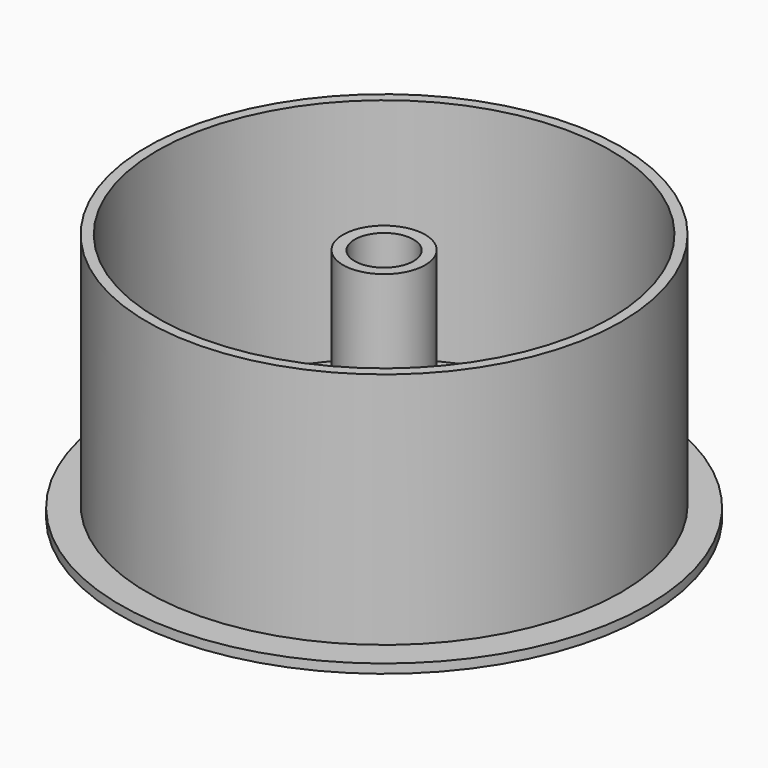
from build123d import *

# Parameters (mm, degrees)
F0_W = 38.031577
F0_H = 1.577056


with BuildPart() as f1:
    # F0 (on Front) → F1 (revolve)
    with BuildSketch(Plane.XZ):
        Polygon((39.341409, 0), (7.130294, 0), (7.130294, 37.154283), (5.101061, 37.087251), (5.101061, 0), (5.101061, -6.098447), (13.001503, -6.098447), (13.001503, -4.487136), (7.130294, -4.487136), (7.130294, -1.778), (41.119409, -1.778), (41.119409, 39.531007), (39.341409, 39.531007), align=None)
        with Locations((26.779018, -2.969895)):
            Rectangle(F0_W, F0_H)
    revolve(axis=Axis((0, 0, 17.398385), (0, 0, 1)))


solid = f1.part
